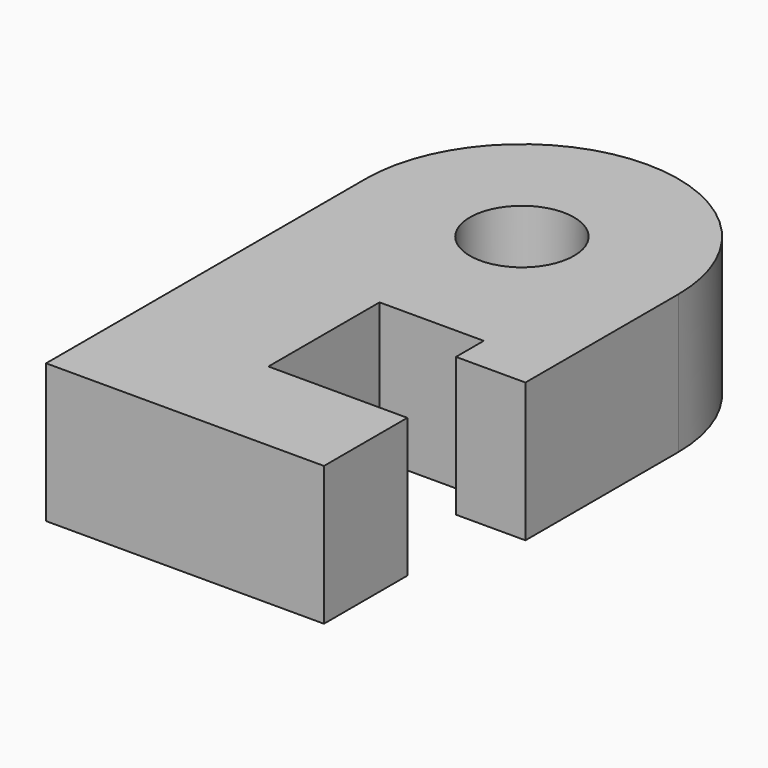
from build123d import *

# Parameters (mm, degrees)
F0_R     = 0.75
F1_DEPTH = 2


with BuildPart() as f1:
    # F0 (on Top) → F1 (new body)
    with BuildSketch(Plane.XY):
        with BuildLine():
            Line((3.5, 3.5), (3.5, 3))
            Line((3.5, 3), (4.5, 3))
            Line((4.5, 3), (4.5, 5.75))
            ThreePointArc((4.5, 5.75), (3.84099, 7.34099), (2.25, 8))
            ThreePointArc((2.25, 8), (0.65901, 7.34099), (0, 5.75))
            Line((0, 5.75), (0, 0))
            Line((0, 0), (4, 0))
            Line((4, 0), (4, 1.5))
            Line((4, 1.5), (2, 1.5))
            Line((2, 1.5), (2, 3))
            Line((2, 3), (2, 3.5))
            Line((2, 3.5), (3.5, 3.5))
        make_face()
        with Locations((2.25, 5.75)):
            Circle(F0_R, mode=Mode.SUBTRACT)
    extrude(amount=F1_DEPTH)


solid = f1.part
